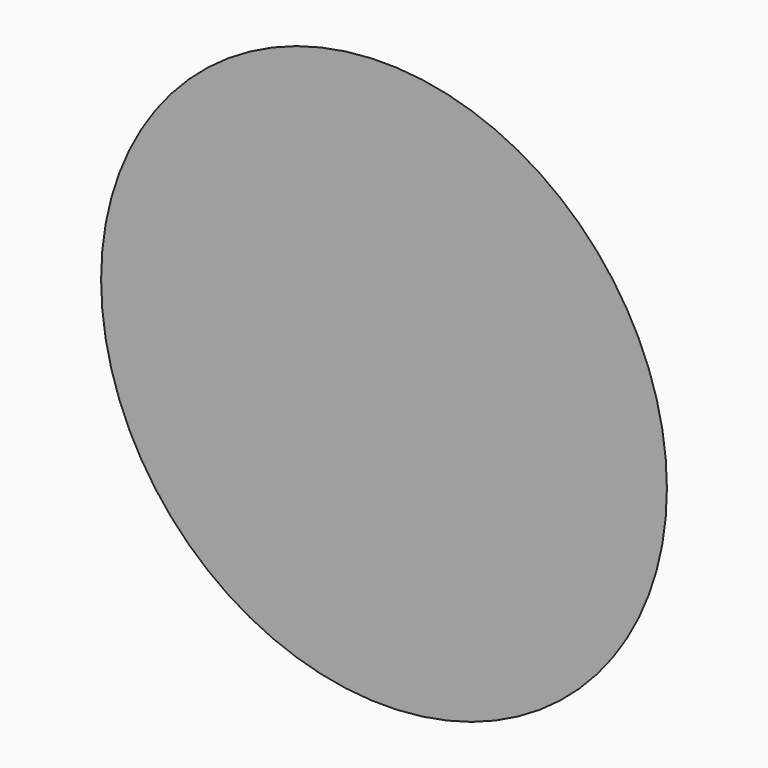
from build123d import *

# Parameters (mm, degrees)
F2_R     = 4.215243
F3_DEPTH = 10.16


with BuildPart() as f1:
    # F0 (on Top) → F1 (revolve)
    with BuildSketch(Plane.XY):
        Polygon((0, 18.142854), (0, 0), (25.4, 0), (4.774436, 18.142854), align=None)
    revolve(axis=Axis((0, 9.071427, 0), (0, 1, 0)))

    # F2 (on face) → F3 (cut)
    with BuildSketch(Plane(origin=(0, 18.142854, 0), x_dir=(-1, 0, 0), z_dir=(0, 1, 0))):
        Circle(F2_R)
    extrude(amount=-F3_DEPTH, mode=Mode.SUBTRACT)


solid = f1.part
